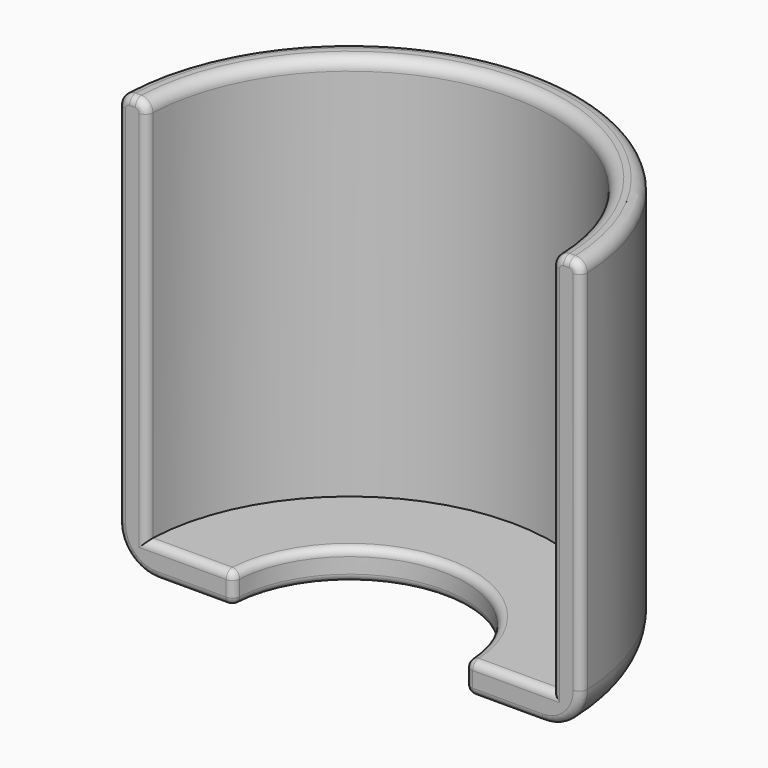
from build123d import *

# Parameters (mm, degrees)
SKETCH_R      = 60
SKETCH_R_2    = 30
PAD_DEPTH     = 8
SKETCH001_R   = 60
SKETCH001_R_2 = 52.5
PAD001_DEPTH  = 100
FILLET_R      = 10
FILLET001_R   = 2
FILLET002_R   = 3
SKETCH002_W   = 200
SKETCH002_H   = 80
POCKET_DEPTH  = 108.001
FILLET003_R   = 2


with BuildPart() as part:
    # Sketch → Pad (new body)
    with BuildSketch(Plane.XY):
        Circle(SKETCH_R)
        Circle(SKETCH_R_2, mode=Mode.SUBTRACT)
    extrude(amount=PAD_DEPTH)

    # Sketch001 (on Face4 of Pad) → Pad001 (join)
    with BuildSketch(Plane.XY.offset(8)):
        Circle(SKETCH001_R)
        Circle(SKETCH001_R_2, mode=Mode.SUBTRACT)
    extrude(amount=PAD001_DEPTH)

    # Fillet
    fillet_edges = [part.edges().sort_by_distance(p)[0] for p in [
        (-60, 0, 0),
    ]]
    fillet(fillet_edges, radius=FILLET_R)

    # Fillet001
    fillet001_edges = [part.edges().sort_by_distance(p)[0] for p in [
        (-30, 0, 0),
        (-30, 0, 8),
    ]]
    fillet(fillet001_edges, radius=FILLET001_R)

    # Fillet002
    fillet002_edges = [part.edges().sort_by_distance(p)[0] for p in [
        (-52.5, 0, 108),
        (-60, 0, 108),
    ]]
    fillet(fillet002_edges, radius=FILLET002_R)

    # Sketch002 (on Face5 of Fillet002) → Pocket (cut, through all)
    with BuildSketch(Plane(origin=(0, 0, 0), x_dir=(1, 0, 0), z_dir=(0, 0, -1))):
        with Locations((0, 40)):
            Rectangle(SKETCH002_W, SKETCH002_H)
    extrude(amount=-POCKET_DEPTH, mode=Mode.SUBTRACT)

    # Fillet003
    fillet003_edges = [part.edges().sort_by_distance(p)[0] for p in [
        (-41, 0, 0),
        (-57.071068, 0, 2.928932),
        (-60, 0, 57.5),
        (-59.12132, 0, 107.12132),
        (-56.25, 0, 108),
        (-53.37868, 0, 107.12132),
        (-52.5, 0, 56.5),
        (-42.25, 0, 8),
        (-30.585786, 0, 7.414214),
        (-30, 0, 4),
        (-30.585786, 0, 0.585786),
        (41, 0, 0),
        (30.585786, 0, 0.585786),
        (30, 0, 4),
        (30.585786, 0, 7.414214),
        (42.25, 0, 8),
        (52.5, 0, 56.5),
        (53.37868, 0, 107.12132),
        (56.25, 0, 108),
        (59.12132, 0, 107.12132),
        (60, 0, 57.5),
        (57.071067, 0, 2.928931),
    ]]
    fillet(fillet003_edges, radius=FILLET003_R)


solid = part.part
